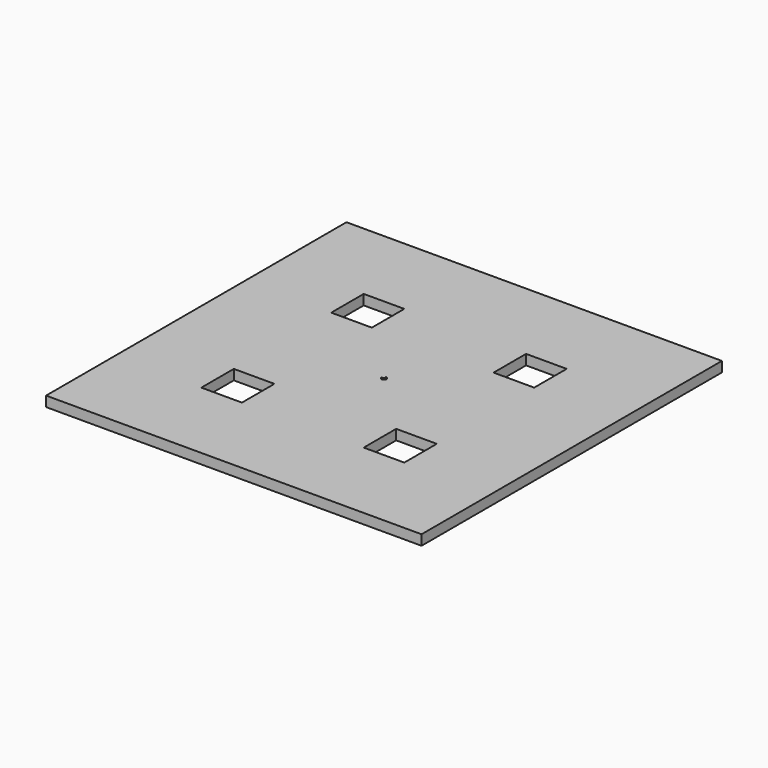
from build123d import *

# Parameters (mm, degrees)
F0_W     = 234.95
F0_H     = 234.95
F1_DEPTH = 6.35
F2_W     = 25.4
F2_H     = 25.4
F3_DEPTH = 25.4


with BuildPart() as f1:
    # F0 (on Top) → F1 (new body)
    with BuildSketch(Plane.XY):
        Rectangle(F0_W, F0_H)
    extrude(amount=F1_DEPTH)

    # F2 (on face) → F3 (cut)
    with BuildSketch(Plane.XY.offset(6.35)):
        with Locations((-50.8, 50.8)):
            Rectangle(F2_W, F2_H)
        with Locations((50.8, 50.8)):
            Rectangle(F2_W, F2_H)
        with Locations((50.8, -50.8)):
            Rectangle(F2_W, F2_H)
        with Locations((-50.8, -50.8)):
            Rectangle(F2_W, F2_H)
        with BuildLine():
            ThreePointArc((1.5875, 0), (1.1225320151, 1.1225320151), (0, 1.5875))
            Line((0, 1.5875), (0, 0))
            Line((0, 0), (1.5875, 0))
        make_face()
        with BuildLine():
            Line((0, -1.5875), (0, 0))
            Line((0, 0), (-1.5875, 0))
            ThreePointArc((-1.5875, 0), (-1.1225320151, -1.1225320151), (0, -1.5875))
        make_face()
        with BuildLine():
            ThreePointArc((0, -1.5875), (1.1225320151, -1.1225320151), (1.5875, 0))
            Line((1.5875, 0), (0, 0))
            Line((0, 0), (0, -1.5875))
        make_face()
    extrude(amount=-F3_DEPTH, mode=Mode.SUBTRACT)


solid = f1.part
